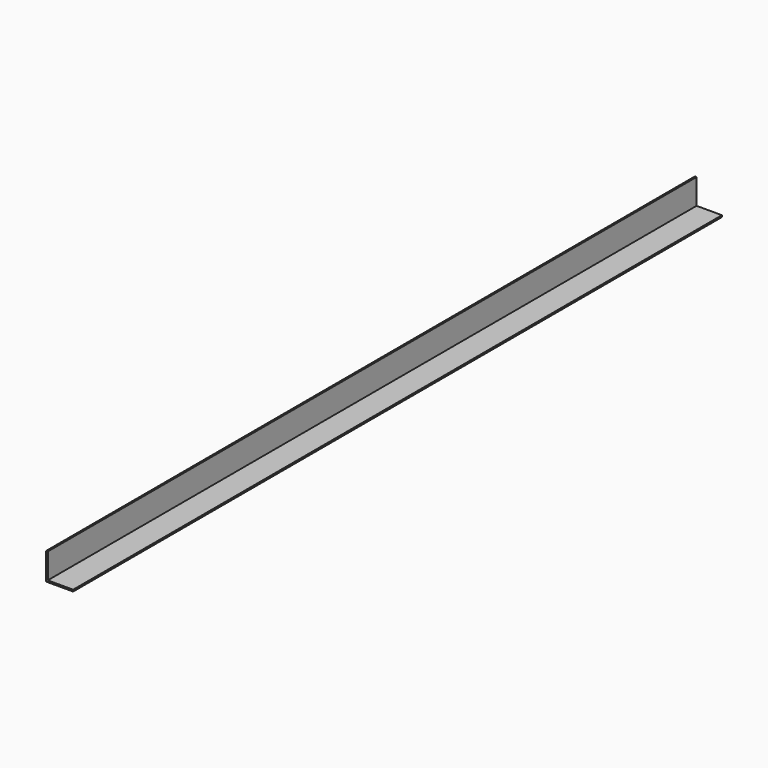
from build123d import *

# Parameters (mm, degrees)
F0_W     = 3.175
F0_H     = 3.175
F0_W_2   = 47.625
F0_H_2   = 47.625
F1_DEPTH = 1524


with BuildPart() as f1:
    # F0 (on Front) → F1 (new body)
    with BuildSketch(Plane.XZ):
        with Locations((1.5875, 1.5875)):
            Rectangle(F0_W, F0_H)
        with Locations((26.9875, 1.5875)):
            Rectangle(F0_W_2, F0_H)
        with Locations((1.5875, 26.9875)):
            Rectangle(F0_W, F0_H_2)
    extrude(amount=-F1_DEPTH)


solid = f1.part
